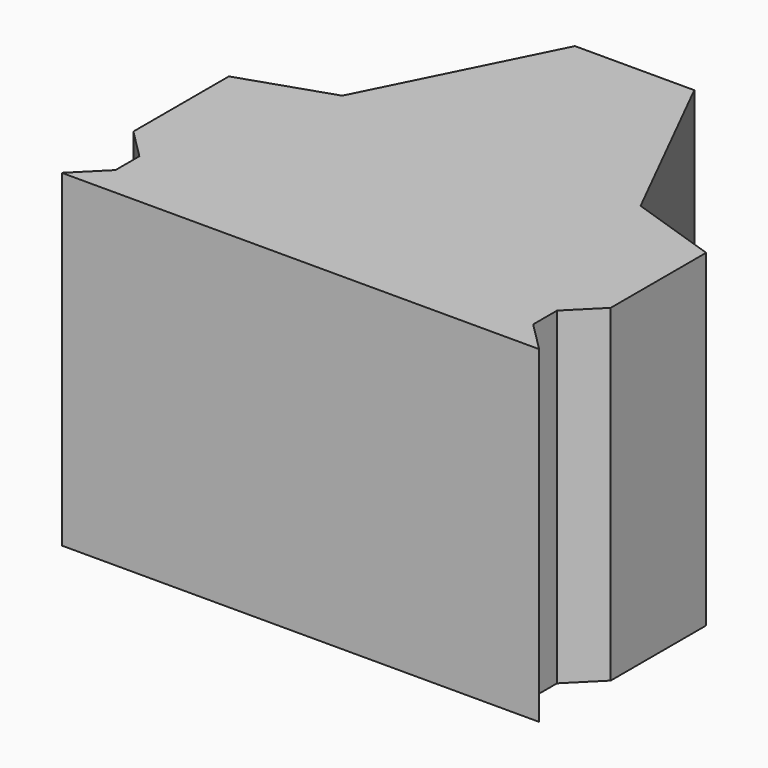
from build123d import *

# Parameters (mm, degrees)
EXTRUDE_DEPTH = 11


with BuildPart() as part:
    # path2076 → Extrude (new body)
    with BuildSketch(Plane(origin=(47.999999, -104, 0), x_dir=(0, 1, 0), z_dir=(0, 0, 1))):
        with BuildLine():
            add(Edge.make_bspline(
                [(-7, -8), (-6, -7)],
                knots=[0, 0, 1.414214, 1.414214], degree=1))
            add(Edge.make_bspline(
                [(-6, -7), (-5, -7)],
                knots=[0, 0, 1, 1], degree=1))
            add(Edge.make_bspline(
                [(-5, -7), (-4, -7.999998)],
                knots=[0, 0, 1.414212, 1.414212], degree=1))
            add(Edge.make_bspline(
                [(-4, -7.999998), (0, -8)],
                knots=[0, 0, 4, 4], degree=1))
            add(Edge.make_bspline(
                [(0, -8), (1, -5)],
                knots=[0, 0, 3.162278, 3.162278], degree=1))
            add(Edge.make_bspline(
                [(1, -5), (7, -2)],
                knots=[0, 0, 6.708204, 6.708204], degree=1))
            add(Edge.make_bspline(
                [(7, -2), (7, 2)],
                knots=[0, 0, 4, 4], degree=1))
            add(Edge.make_bspline(
                [(7, 2), (1, 5)],
                knots=[0, 0, 6.708204, 6.708204], degree=1))
            add(Edge.make_bspline(
                [(1, 5), (0, 8)],
                knots=[0, 0, 3.162278, 3.162278], degree=1))
            add(Edge.make_bspline(
                [(0, 8), (-4, 8)],
                knots=[0, 0, 4, 4], degree=1))
            add(Edge.make_bspline(
                [(-4, 8), (-5, 7)],
                knots=[0, 0, 1.414214, 1.414214], degree=1))
            add(Edge.make_bspline(
                [(-5, 7), (-6, 7)],
                knots=[0, 0, 1, 1], degree=1))
            add(Edge.make_bspline(
                [(-6, 7), (-7, 8)],
                knots=[0, 0, 1.414214, 1.414214], degree=1))
            add(Edge.make_bspline(
                [(-7, 8), (-7, -8)],
                knots=[0, 0, 16, 16], degree=1))
        make_face()
    extrude(amount=EXTRUDE_DEPTH)


solid = part.part
